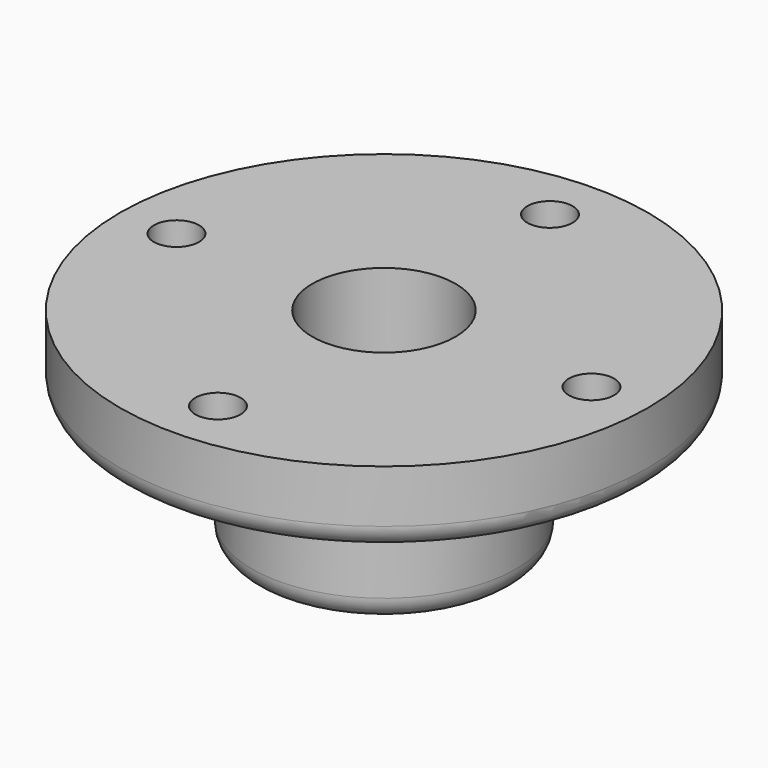
from build123d import *

# Parameters (mm, degrees)
F0_R     = 70
F0_R_2   = 6
F0_R_3   = 35
F1_DEPTH = 20
F0_R_4   = 19
F2_DEPTH = 55
F3_R     = 6


with BuildPart() as f1:
    # F0 (on Top) → F1 (new body)
    with BuildSketch(Plane.XY):
        Circle(F0_R)
        with Locations((0, -55)):
            Circle(F0_R_2, mode=Mode.SUBTRACT)
        with Locations((-55, 0)):
            Circle(F0_R_2, mode=Mode.SUBTRACT)
        Circle(F0_R_3, mode=Mode.SUBTRACT)
        with Locations((55, 0)):
            Circle(F0_R_2, mode=Mode.SUBTRACT)
        with Locations((0, 55)):
            Circle(F0_R_2, mode=Mode.SUBTRACT)
    extrude(amount=-F1_DEPTH)

    # F0 (on Top) → F2 (join)
    with BuildSketch(Plane.XY):
        Circle(F0_R_3)
        Circle(F0_R_4, mode=Mode.SUBTRACT)
    extrude(amount=-F2_DEPTH)

    # F3
    f3_edges = [f1.edges().sort_by_distance(p)[0] for p in [
        (-70, 0, -20),
        (-35, 0, -55),
        (-35, 0, -20),
    ]]
    fillet(f3_edges, radius=F3_R)


solid = f1.part
